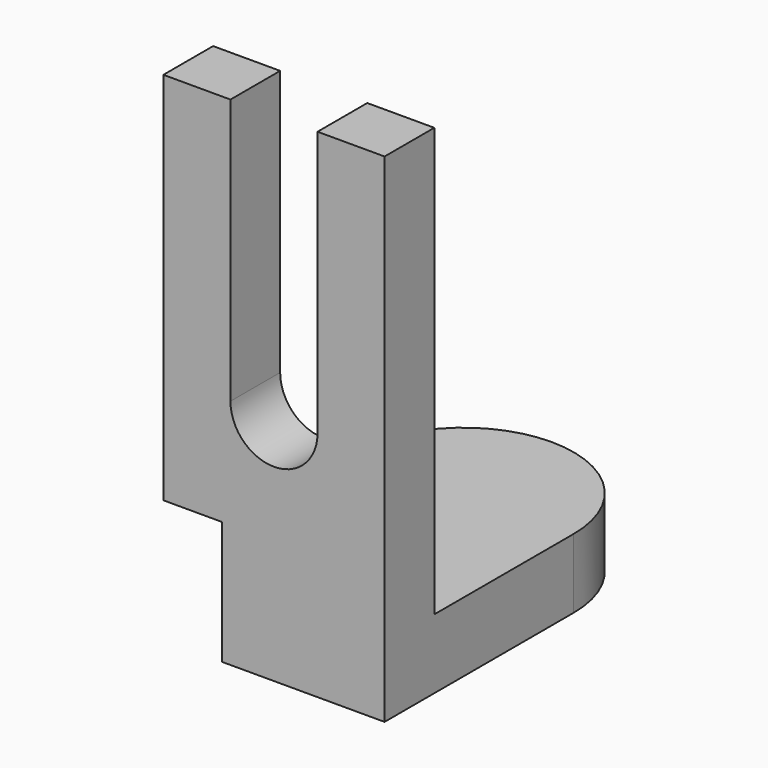
from build123d import *

# Parameters (mm, degrees)
F1_DEPTH = 16.256
F2_W     = 51.8002919853
F2_H     = 14.5590286702
F3_DEPTH = 100.33
F5_DEPTH = 39.116
F6_DEPTH = 25.4
F7_W     = 13.6753991246
F7_H     = 28.8449618965
F8_DEPTH = 31.242


with BuildPart() as f1:
    # F0 (on Top) → F1 (new body)
    with BuildSketch(Plane.XY):
        with BuildLine():
            Line((-25.9001459926, -27.6933182031), (25.9001459926, -27.6933182031))
            Line((25.9001459926, -27.6933182031), (25.9001459926, 27.6933182031))
            ThreePointArc((25.9001459926, 27.6933182031), (0, 53.5934641957), (-25.9001459926, 27.6933182031))
            Line((-25.9001459926, 27.6933182031), (-25.9001459926, -27.6933182031))
        make_face()
    extrude(amount=F1_DEPTH)

    # F2 (on face) → F3 (join)
    with BuildSketch(Plane.XY.offset(16.256)):
        with Locations((0, -20.413803868)):
            Rectangle(F2_W, F2_H)
    extrude(amount=F3_DEPTH)

    # F4 (on face) → F5 (cut)
    with BuildSketch(Plane(origin=(0, -13.1342895329, 0), x_dir=(-1, 0, 0), z_dir=(0, 1, 0))):
        with BuildLine():
            Line((10.1979328319, 54.3813481927), (10.1979328319, 116.5178194642))
            Line((10.1979328319, 116.5178194642), (-10.1979328319, 116.5178194642))
            Line((-10.1979328319, 116.5178194642), (-10.1979328319, 54.3813481927))
            ThreePointArc((-10.1979328319, 54.3813481927), (0, 44.1834153607), (10.1979328319, 54.3813481927))
        make_face()
    extrude(amount=-F5_DEPTH, mode=Mode.SUBTRACT)

    # F6 (cut): a face of the model
    f6_faces = [f1.faces().sort_by_distance(p)[0] for p in [
        (0, -20.413803868, 116.5178194642),
    ]]
    extrude(f6_faces, amount=-F6_DEPTH, mode=Mode.SUBTRACT)

    # F7 (on face) → F8 (cut)
    with BuildSketch(Plane.XZ.offset(27.6933182031)):
        with Locations((-19.0624464303, 14.4224809483)):
            Rectangle(F7_W, F7_H)
    extrude(amount=-F8_DEPTH, mode=Mode.SUBTRACT)


solid = f1.part
